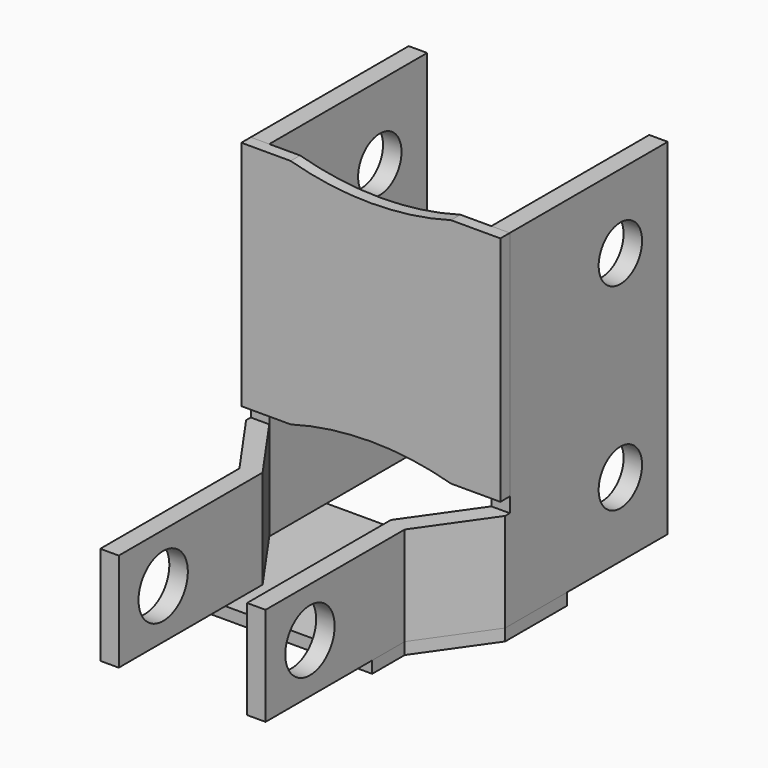
from build123d import *

# Parameters (mm, degrees)
F1_DEPTH = 88.9
F2_W     = 63.5
F2_H     = 63.5
F2_R     = 6.985
F2_R_2   = 7.9375
F3_DEPTH = 33.3385
F6_DEPTH = 3.048
F8_DEPTH = 3.048


with BuildPart() as f1:
    # F0 (on Top) → F1 (new body)
    with BuildSketch(Plane.XY):
        Polygon((33.3375, 0), (28.575, 0), (28.575, -50.8), (16.51, -68.030606), (16.51, -114.3), (21.2725, -114.3), (21.2725, -69.532216), (33.3375, -52.30161), align=None)
    extrude(amount=-F1_DEPTH)

    # F2 (on Right) → F3 (cut, through all)
    with BuildSketch(Plane.YZ):
        with Locations((-82.55, -31.75)):
            Rectangle(F2_W, F2_H)
        with Locations((-15.24, -19.05)):
            Circle(F2_R)
        with Locations((-15.24, -69.85)):
            Circle(F2_R)
        with Locations((-100.0125, -76.2)):
            Circle(F2_R_2)
    extrude(amount=F3_DEPTH, mode=Mode.SUBTRACT)


with BuildPart() as f4_1:
    # F4: instance of F1
    add(f1.part.mirror(Plane.YZ))


with BuildPart() as f6:
    # F5 (on face) → F6 (new body)
    with BuildSketch(Plane.XZ.offset(50.8)):
        with BuildLine():
            Line((-20.6375, 0), (-33.3375, 0))
            Line((-33.3375, 0), (-33.3375, -59.69))
            Line((-33.3375, -59.69), (-20.6375, -59.69))
            ThreePointArc((-20.6375, -59.69), (0, -56.842121), (20.6375, -59.69))
            Line((20.6375, -59.69), (33.3375, -59.69))
            Line((33.3375, -59.69), (33.3375, 0))
            Line((33.3375, 0), (20.6375, 0))
            ThreePointArc((20.6375, 0), (0, -2.847879), (-20.6375, 0))
        make_face()
    extrude(amount=F6_DEPTH)


with BuildPart() as f8:
    # F7 (on face) → F8 (new body)
    with BuildSketch(Plane(origin=(0, 0, -88.9), x_dir=(1, 0, 0), z_dir=(0, 0, -1))):
        Polygon((-33.3375, 52.30161), (-33.3375, 32.385), (33.3375, 32.385), (33.3375, 52.30161), (21.2725, 69.532216), (21.2725, 80.01), (-21.2725, 80.01), (-21.2725, 69.532216), align=None)
    extrude(amount=F8_DEPTH)


solid = Compound([f1.part, f4_1.part, f6.part, f8.part])
